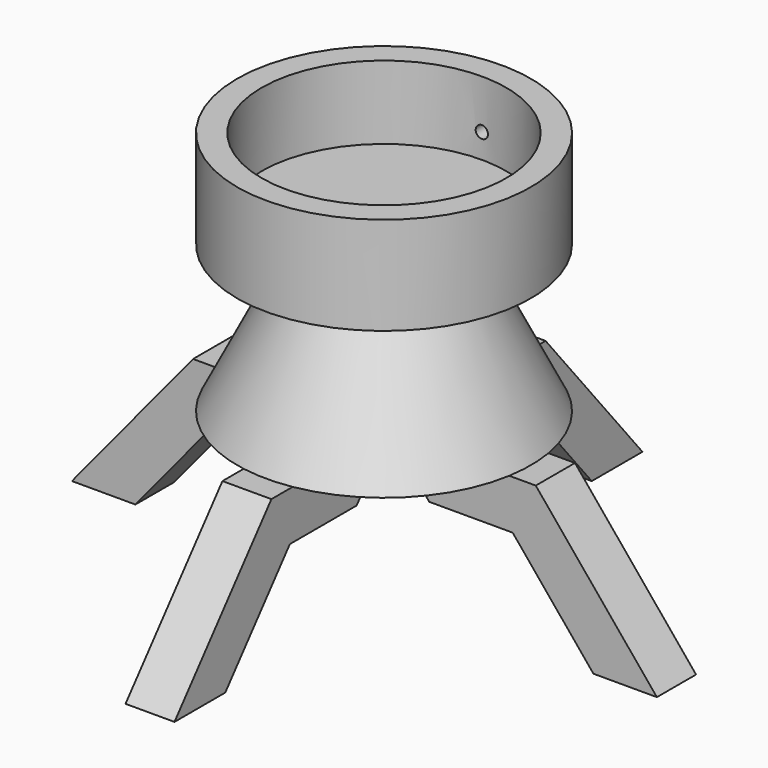
from build123d import *

# Parameters (mm, degrees)
F3_DEPTH = 25.4
F4_COUNT = 4
F5_R     = 6.35
F6_DEPTH = 508


with BuildPart() as f1:
    # F0 (on Front) → F1 (revolve)
    with BuildSketch(Plane.XZ):
        Polygon((-76.2, 152.4), (0, 152.4), (0, 177.8), (-127, 177.8), (-127, 254), (-152.4, 254), (-152.4, 152.4), align=None)
        Polygon((-152.4, 0), (0, 0), (0, 152.4), (-76.2, 152.4), align=None)
    revolve(axis=Axis((0, 0, 76.2), (0, 0, -1)))

    # F2 (on Front) → F3 (join, symmetric)
    with BuildSketch(Plane.XZ):
        Polygon((177.8, 0), (25.4, 0), (67.2867714516, -50.8), (153.8449790805, -50.8), (237.6185219837, -152.4), (303.4603143548, -152.4), align=None)
    extrude(amount=F3_DEPTH, both=True)

    # F4: F1 ×4 about axis
    f4_axis = Axis((0, 0, 152.4), (0, 0, -1))


with BuildPart() as f1_1:
    add(f1.part)
    for i in range(1, F4_COUNT):
        add(f1.part.rotate(f4_axis, i * 360 / F4_COUNT))

    # F5 (on Front) → F6 (cut)
    with BuildSketch(Plane.XZ):
        with Locations((0, 203.2)):
            Circle(F5_R)
    extrude(amount=-F6_DEPTH, mode=Mode.SUBTRACT)


solid = f1_1.part
